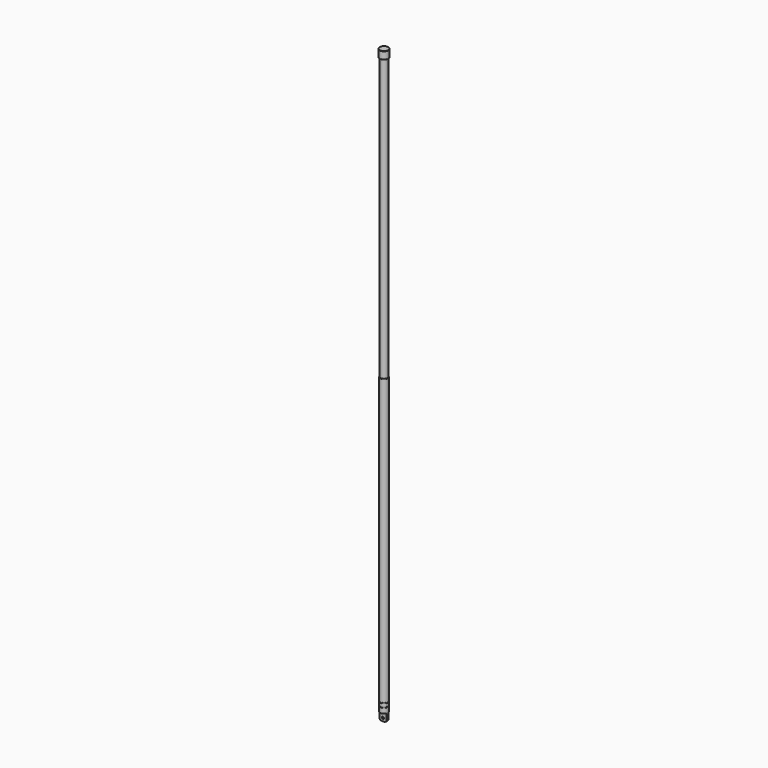
from build123d import *

# Parameters (mm, degrees)
SKETCH010_R     = 3
PAD006_DEPTH    = 10.5
SKETCH011_R     = 2.9
PAD007_DEPTH    = 0.5
SKETCH012_R     = 3
PAD008_DEPTH    = 2.5
SKETCH013_R     = 2.9
PAD009_DEPTH    = 0.5
SKETCH014_R     = 3
PAD010_DEPTH    = 225
SKETCH015_R     = 2.675
PAD011_DEPTH    = 222
SKETCH016_R     = 3.5
PAD012_DEPTH    = 6
SKETCH017_W     = 10
SKETCH017_H     = 8
POCKET003_DEPTH = 5
SKETCH018_W     = 10
SKETCH018_H     = 8
POCKET004_DEPTH = 5
SKETCH019_R     = 0.875
HOLE001_DEPTH   = 2.474247
HOLE001_TIPS_R  = 0.875
FILLET003_R     = 0.099
FILLET004_R     = 0.3
CHAMFER_SIZE    = 0.2
FILLET005_R     = 1.89


with BuildPart() as part:
    # Sketch010 → Pad006 (new body)
    with BuildSketch(Plane.XY):
        Circle(SKETCH010_R)
    extrude(amount=PAD006_DEPTH)

    # Sketch011 (on Face3 of Pad006) → Pad007 (join)
    with BuildSketch(Plane.XY.offset(10.5)):
        Circle(SKETCH011_R)
    extrude(amount=PAD007_DEPTH)

    # Sketch012 (on Face5 of Pad007) → Pad008 (join)
    with BuildSketch(Plane.XY.offset(11)):
        Circle(SKETCH012_R)
    extrude(amount=PAD008_DEPTH)

    # Sketch013 (on Face3 of Pad008) → Pad009 (join)
    with BuildSketch(Plane.XY.offset(13.5)):
        Circle(SKETCH013_R)
    extrude(amount=PAD009_DEPTH)

    # Sketch014 (on Face7 of Pad009) → Pad010 (join)
    with BuildSketch(Plane.XY.offset(14)):
        Circle(SKETCH014_R)
    extrude(amount=PAD010_DEPTH)

    # Sketch015 (on Face3 of Pad010) → Pad011 (join)
    with BuildSketch(Plane.XY.offset(239)):
        Circle(SKETCH015_R)
    extrude(amount=PAD011_DEPTH)

    # Sketch016 (on Face7 of Pad011) → Pad012 (join)
    with BuildSketch(Plane.XY.offset(461)):
        Circle(SKETCH016_R)
    extrude(amount=PAD012_DEPTH)

    # Sketch017 (on DatumPlane) → Pocket003 (cut)
    with BuildSketch(Plane(origin=(0, 1.1, 5.25), x_dir=(1, 0, 0), z_dir=(0, -1, 0))):
        with Locations((0, -2.75)):
            Rectangle(SKETCH017_W, SKETCH017_H)
    extrude(amount=-POCKET003_DEPTH, mode=Mode.SUBTRACT)

    # Sketch018 (on DatumPlane) → Pocket004 (cut)
    with BuildSketch(Plane(origin=(0, -1.1, 5.25), x_dir=(1, 0, 0), z_dir=(0, -1, 0))):
        with Locations((0, -2.75)):
            Rectangle(SKETCH018_W, SKETCH018_H)
    extrude(amount=POCKET004_DEPTH, mode=Mode.SUBTRACT)

    # Sketch019 (on Face18 of Pocket004) → Hole001 (cut)
    with BuildSketch(Plane.XZ.offset(1.1)):
        with Locations((0, 2.5)):
            Circle(SKETCH019_R)
    extrude(amount=-HOLE001_DEPTH, mode=Mode.SUBTRACT)

    # Hole001 tips → Hole001 tip 1 section 0
    with BuildSketch(Plane.XZ.offset(-1.374247), mode=Mode.PRIVATE) as hole001_tip_1_s0:
        with Locations((0, 2.5)):
            Circle(HOLE001_TIPS_R)
    loft([hole001_tip_1_s0.sketch, Vertex(0, 1.9, 2.5)], mode=Mode.SUBTRACT)

    # Fillet003
    fillet003_edges = [part.edges().sort_by_distance(p)[0] for p in [
        (-3, 0, 11),
        (-3, 0, 14),
        (-3, 0, 13.5),
        (-3, 0, 10.5),
    ]]
    fillet(fillet003_edges, radius=FILLET003_R)

    # Fillet004
    fillet004_edges = [part.edges().sort_by_distance(p)[0] for p in [
        (-3, 0, 239),
    ]]
    fillet(fillet004_edges, radius=FILLET004_R)

    # Chamfer
    chamfer_edges = [part.edges().sort_by_distance(p)[0] for p in [
        (-3.5, 0, 467),
        (-3.5, 0, 461),
    ]]
    chamfer(chamfer_edges, length=CHAMFER_SIZE)

    # Fillet005
    fillet005_edges = [part.edges().sort_by_distance(p)[0] for p in [
        (-3, 0, 0),
        (2.947301, -0.559834, 0),
        (2.947301, 0.559834, 0),
    ]]
    fillet(fillet005_edges, radius=FILLET005_R)


with BuildPart() as part_1:
    # Body003 placement: moved
    add(part.part.moved(Location((0, 0, 15.5))))


solid = part_1.part
